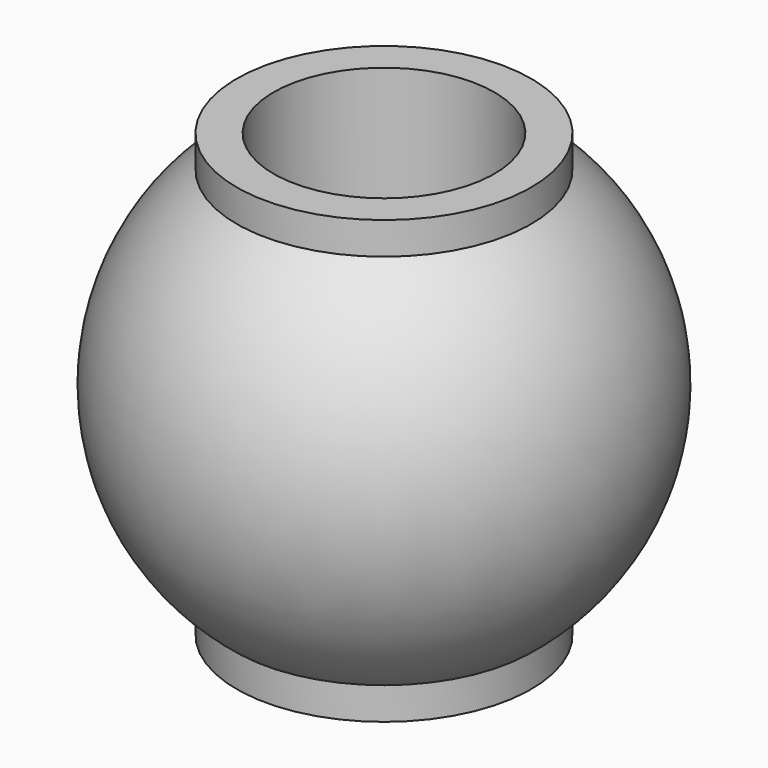
from build123d import *


with BuildPart() as f1:
    # F0 (on Right) → F1 (revolve)
    with BuildSketch(Plane.YZ):
        with BuildLine():
            Line((2, -3), (2, -2.561738))
            ThreePointArc((2, -2.561738), (3.25, 0), (2, 2.561738))
            Line((2, 2.561738), (2, 3))
            Line((2, 3), (1.5, 3))
            Line((1.5, 3), (1.5, -3))
            Line((1.5, -3), (2, -3))
        make_face()
    revolve(axis=Axis((0, 0, 0), (0, 0, -1)))


solid = f1.part
